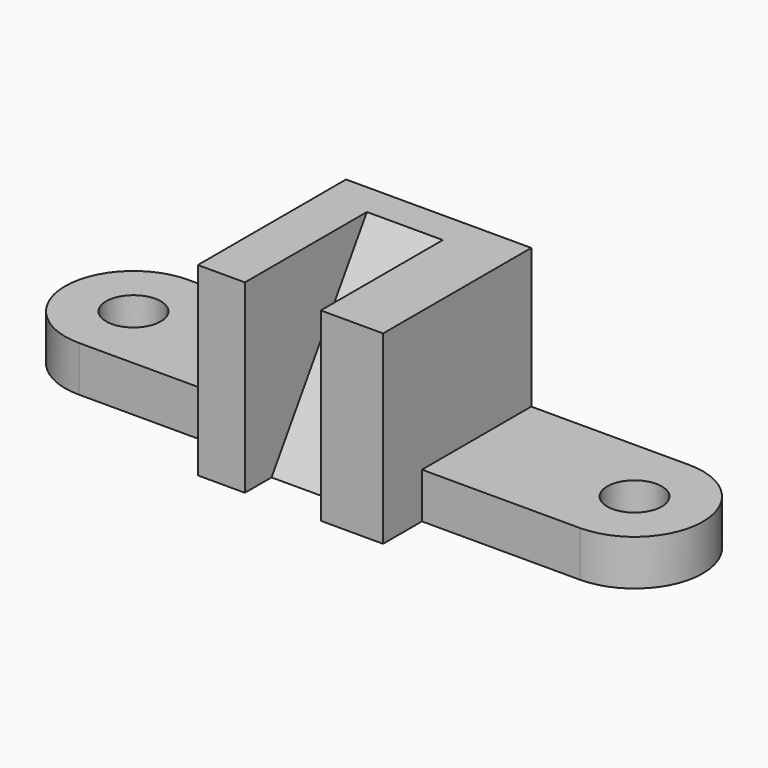
from build123d import *

# Parameters (mm, degrees)
F0_W      = 52
F0_H      = 15
F1_DEPTH  = 45
F2_DEPTH  = 61
F3_R      = 22.5
F4_DEPTH  = 15
F6_R      = 9
F5_R      = 9
F7_DEPTH  = 25
F10_DEPTH = 25


with BuildPart() as f1:
    # F0 (on Front) → F1 (new body)
    with BuildSketch(Plane.XZ):
        with Locations((-56.5, -7.6666666667)):
            Rectangle(F0_W, F0_H)
    extrude(amount=F1_DEPTH)



with BuildPart() as f1b:
    # F0 (on Front) → F1, piece 2 (new body)
    with BuildSketch(Plane.XZ):
        with Locations((56.5, -7.6666666667)):
            Rectangle(F0_W, F0_H)
    extrude(amount=F1_DEPTH)


with BuildPart() as f1_1:
    add(f1.part)

    add(f1b.part)  # F2 merges F1b
    # F0 (on Front) → F2 (join)
    with BuildSketch(Plane.XZ):
        Polygon((30.5, 45.8333333333), (-30.5, 45.8333333333), (-30.5, -0.1666666667), (-30.5, -15.1666666667), (30.5, -15.1666666667), (30.5, -0.1666666667), align=None)
    extrude(amount=F2_DEPTH)

    # F3 (on face) → F4 (join)
    with BuildSketch(Plane.XY.offset(-0.1666666667)):
        with BuildLine():
            Line((-82.5, -45), (-82.5, 0))
            ThreePointArc((-82.5, 0), (-105, -22.5), (-82.5, -45))
        make_face()
        with Locations((82.5, -22.5)):
            Circle(F3_R)
    extrude(amount=-F4_DEPTH)

    # F6 (on face) + F5 (on face) → F7 (cut)
    with BuildSketch(Plane.XY.offset(-0.1666666667)):
        with Locations((82.5, -22.5)):
            Circle(F6_R)
    with BuildSketch(Plane.XY.offset(-0.1666666667)):
        with Locations((-82.5, -22.5)):
            Circle(F5_R)
    extrude(amount=-F7_DEPTH, mode=Mode.SUBTRACT)

    # F9 (on offset) → F10 (cut)
    with BuildSketch(Plane(origin=(-15, 0, 0), x_dir=(0, -1, 0), z_dir=(-1, 0, 0))):
        Polygon((61.0416666667, 45.8333333333), (10.7916666667, 45.8333333333), (50.0416666667, -15.1666666667), (61.0416666667, -15.1666666667), align=None)
    extrude(amount=-F10_DEPTH, mode=Mode.SUBTRACT)


solid = f1_1.part
